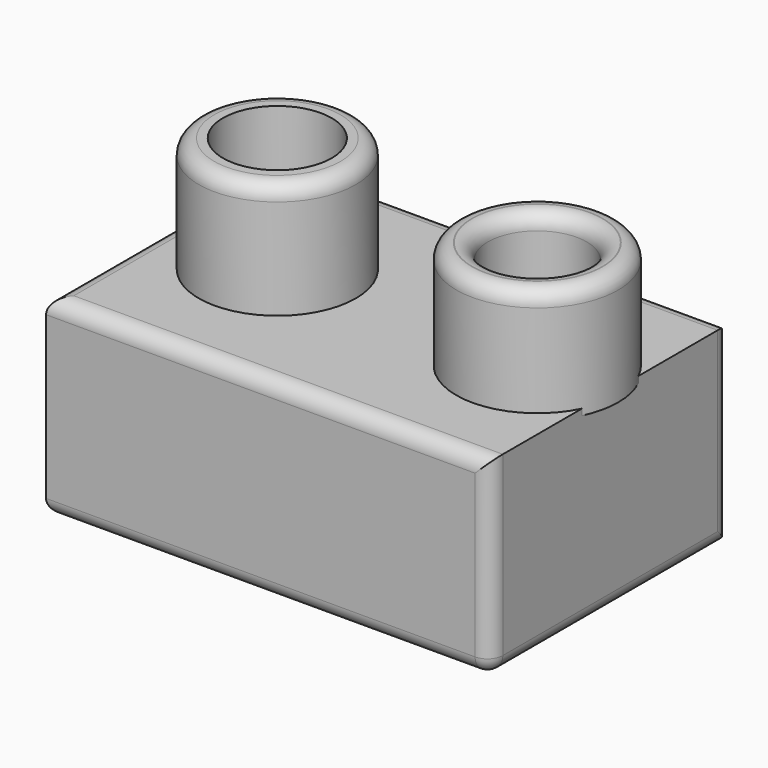
from build123d import *

# Parameters (mm, degrees)
F0_W     = 146.582454443
F0_H     = 98.6987948418
F1_DEPTH = 63.5
F2_R     = 25.913642442
F3_DEPTH = 38.1
F4_R     = 17.9236546868
F5_DEPTH = 38.1
F6_W     = 10.4035940021
F6_H     = 37.6868881285
F8_R     = 5.08
F8_2_R   = 5.08


with BuildPart() as f1:
    # F0 (on Top) → F1 (new body)
    with BuildSketch(Plane.XY):
        Rectangle(F0_W, F0_H)
    extrude(amount=F1_DEPTH)

    # F6 (on Front) → F7 (revolve)
    with BuildSketch(Plane.XZ):
        with Locations((27.7340533212, 80.2984889597)):
            Rectangle(F6_W, F6_H)
    revolve(axis=Axis((49.2432229221, 0, 63.3361302316), (0, 0, -1)))

    # F8
    f8_edges = [f1.edges().sort_by_distance(p)[0] for p in [
        (75.95419, 0, 99.141933),
        (65.550596, 0, 99.141933),
        (0, -49.349397, 63.5),
        (73.291227, -49.349397, 31.75),
        (0, -49.349397, 0),
        (73.291227, 49.349397, 31.75),
        (73.291227, 0, 0),
        (-73.291227, 0, 63.5),
        (-73.291227, 49.349397, 31.75),
        (0, 49.349397, 63.5),
        (-73.291227, 0, 0),
    ]]
    fillet(f8_edges, radius=F8_R)


with BuildPart() as f3:
    # F2 (on face) → F3 (new body)
    with BuildSketch(Plane.XY.offset(63.5)):
        with Locations((-36.5022569895, 0)):
            Circle(F2_R)
    extrude(amount=F3_DEPTH)

    # F4 (on face) → F5 (cut, through all)
    with BuildSketch(Plane.XY.offset(101.6)):
        with Locations((-36.5022569895, 0)):
            Circle(F4_R)
    extrude(amount=-F5_DEPTH, mode=Mode.SUBTRACT)

    # F8#2
    f8_2_edges = [f3.edges().sort_by_distance(p)[0] for p in [
        (-62.415899, 0, 101.6),
    ]]
    fillet(f8_2_edges, radius=F8_2_R)


solid = Compound([f1.part, f3.part])
